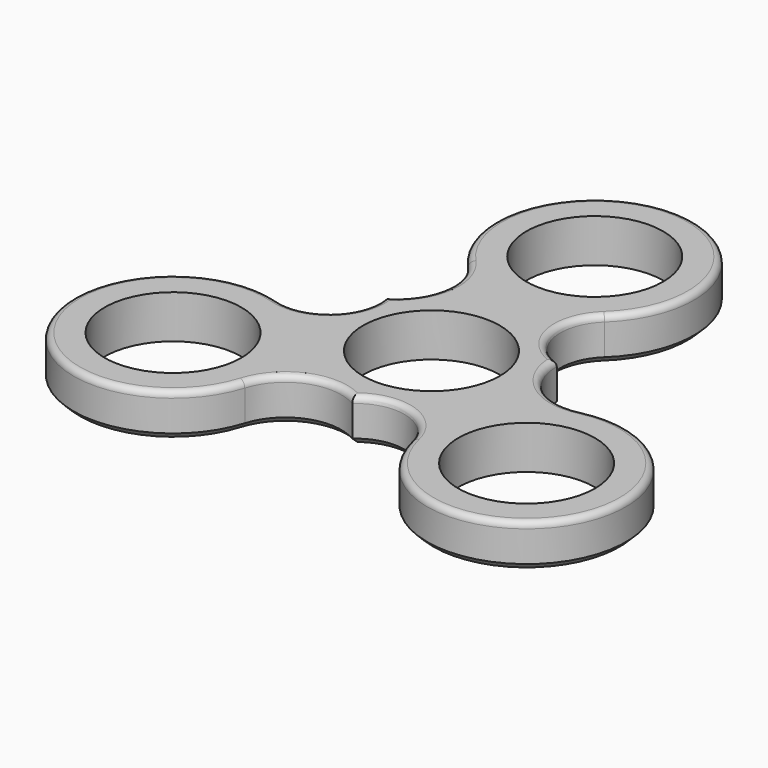
from build123d import *

# Parameters (mm, degrees)
F0_R     = 11.05
F1_DEPTH = 3.5
F2_R     = 1
F3_SIZE  = 1


with BuildPart() as f1:
    # F0 (on Top) → F1 (new body, symmetric)
    with BuildSketch(Plane.XY):
        with BuildLine():
            ThreePointArc((-13.227763, -21.18476), (-7.86781, -15.393259), (0, -16))
            ThreePointArc((0, -16), (7.643636, -14.374283), (12.942037, -20.118417))
            ThreePointArc((12.942037, -20.118417), (42.194334, -24.998281), (24.960422, -0.863198))
            ThreePointArc((24.960422, -0.863198), (17.264859, 0.882906), (13.856406, 8))
            ThreePointArc((13.856406, 8), (8.626677, 13.806724), (10.952041, 21.267341))
            ThreePointArc((10.952041, 21.267341), (0.55198, 49.040506), (-11.732659, 22.047959))
            ThreePointArc((-11.732659, 22.047959), (-9.397048, 14.510353), (-13.856406, 8))
            ThreePointArc((-13.856406, 8), (-16.270312, 0.567559), (-23.894078, -1.148924))
            ThreePointArc((-23.894078, -1.148924), (-42.746314, -24.042224), (-13.227763, -21.18476))
        make_face()
        with Locations((-28.578838, -16.5)):
            Circle(F0_R, mode=Mode.SUBTRACT)
        with Locations((28.578838, -16.5)):
            Circle(F0_R, mode=Mode.SUBTRACT)
        with BuildLine():
            ThreePointArc((0, -11.05), (-7.81353, 7.81353), (11.05, 0))
            ThreePointArc((11.05, 0), (7.81353, -7.81353), (0, -11.05))
        make_face(mode=Mode.SUBTRACT)
        with Locations((0, 33)):
            Circle(F0_R, mode=Mode.SUBTRACT)
    extrude(amount=F1_DEPTH, both=True)

    # F2
    f2_edges = [f1.edges().sort_by_distance(p)[0] for p in [
        (0.55198, 49.040506, 3.5),
        (42.194334, -24.998281, 3.5),
        (17.264859, 0.882906, 3.5),
        (8.626677, 13.806724, 3.5),
        (-9.397048, 14.510353, 3.5),
        (-16.270312, 0.567559, 3.5),
        (-42.746314, -24.042224, 3.5),
        (-7.86781, -15.393259, 3.5),
        (7.643636, -14.374283, 3.5),
    ]]
    fillet(f2_edges, radius=F2_R)

    # F3
    f3_edges = [f1.edges().sort_by_distance(p)[0] for p in [
        (0.55198, 49.040506, -3.5),
        (-9.397048, 14.510353, -3.5),
        (-16.270312, 0.567559, -3.5),
        (-42.746314, -24.042224, -3.5),
        (-7.86781, -15.393259, -3.5),
        (7.643636, -14.374283, -3.5),
        (42.194334, -24.998281, -3.5),
        (17.264859, 0.882906, -3.5),
        (8.626677, 13.806724, -3.5),
    ]]
    chamfer(f3_edges, length=F3_SIZE)


solid = f1.part
